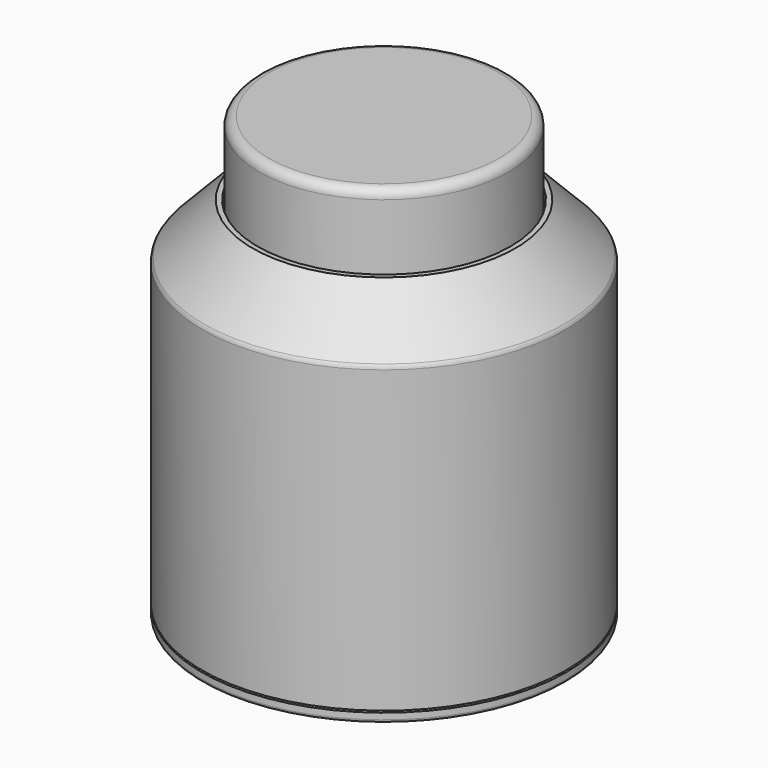
from build123d import *

# Parameters (mm, degrees)
F5_R      = 1.5
F6_R      = 1
F10_DEPTH = 25
F11_R     = 0.5


with BuildPart() as f2:
    # F1 (on Front) → F2 (revolve)
    with BuildSketch(Plane.XZ):
        Polygon((-29.5, 49), (-29.5, 0), (-28, 0), (-28, 47.5), (-20.491645, 47.5), (-3, 47.5), (-3, 49), (-20.491645, 49), (-20.491645, 57.5), (-21.291645, 57.5), align=None)
    revolve(axis=Axis((0, 0, 33.901792), (0, 0, 1)))

    # F6
    f6_edges = [f2.edges().sort_by_distance(p)[0] for p in [
        (29.5, 0, 49),
    ]]
    fillet(f6_edges, radius=F6_R)


with BuildPart() as f4:
    # F3 (on Front) → F4 (revolve)
    with BuildSketch(Plane.XZ):
        Polygon((-20.191645, 69.5), (-20.191645, 52.2), (-17.191645, 52.2), (-17.191645, 59), (0, 59), (0, 69.5), align=None)
    revolve(axis=Axis((0, 0, 33.901792), (0, 0, 1)))

    # F5
    f5_edges = [f4.edges().sort_by_distance(p)[0] for p in [
        (20.191645, 0, 69.5),
    ]]
    fillet(f5_edges, radius=F5_R)


with BuildPart() as f8:
    # F7 (on Front) → F8 (revolve)
    with BuildSketch(Plane.XZ):
        Polygon((-29.5, -0.3), (-29.5, -1.8), (-6.5, -1.8), (-6.5, 1.2), (-27.9, 1.2), (-27.9, -0.3), align=None)
    revolve(axis=Axis((0, 0, 33.901792), (0, 0, 1)))

    # F9 (on face) → F10 (cut)
    with BuildSketch(Plane(origin=(0, 0, -1.8), x_dir=(1, 0, 0), z_dir=(0, 0, -1))):
        with BuildLine():
            ThreePointArc((-22.5, -4.25), (-21.767767, -6.017767), (-20, -6.75))
            Line((-20, -6.75), (-19, -6.75))
            ThreePointArc((-19, -6.75), (-17.232233, -6.017767), (-16.5, -4.25))
            Line((-16.5, -4.25), (-16.5, 4.25))
            ThreePointArc((-16.5, 4.25), (-17.232233, 6.017767), (-19, 6.75))
            Line((-19, 6.75), (-20, 6.75))
            ThreePointArc((-20, 6.75), (-21.767767, 6.017767), (-22.5, 4.25))
            Line((-22.5, 4.25), (-22.5, -4.25))
        make_face()
    extrude(amount=-F10_DEPTH, mode=Mode.SUBTRACT)

    # F11
    f11_edges = [f8.edges().sort_by_distance(p)[0] for p in [
        (29.5, 0, -1.8),
    ]]
    fillet(f11_edges, radius=F11_R)


solid = Compound([f2.part, f4.part, f8.part])
